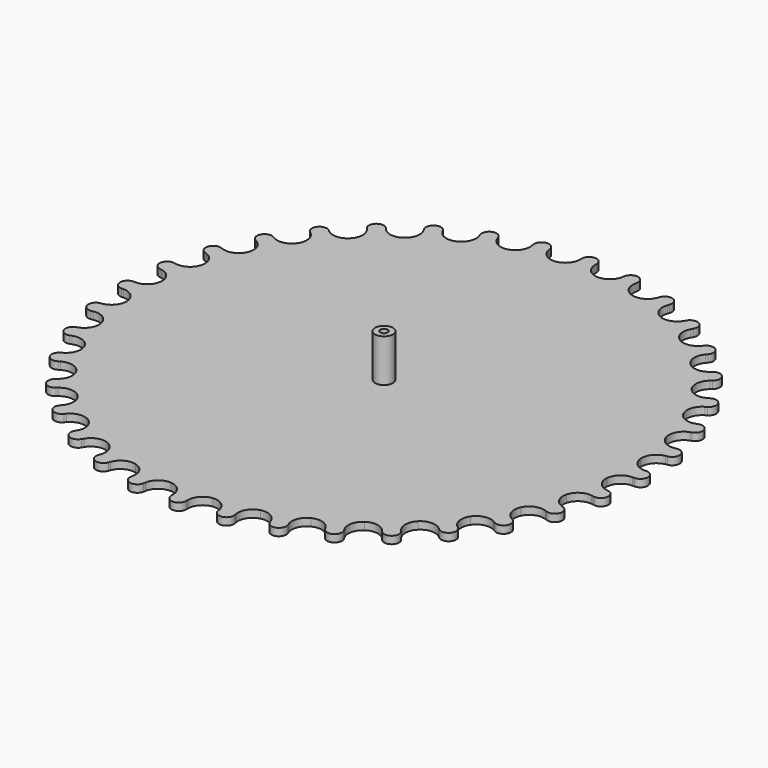
from build123d import *

# Parameters (mm, degrees)
F1_DEPTH = 1
F2_COUNT = 36
F3_R     = 2.4
F4_DEPTH = 12.5
F5_R     = 1
F6_DEPTH = 13.501


with BuildPart() as f1:
    # F0 (on Top) → F1 (new body, symmetric)
    with BuildSketch(Plane.XY):
        with BuildLine():
            Line((2, 68.319345), (2, 68.842279))
            ThreePointArc((2, 68.842279), (0, 70.842279), (-2, 68.842279))
            Line((-2, 68.842279), (-2, 68.319345))
            ThreePointArc((-2, 68.319345), (-3.044892, 65.632409), (-5.630535, 64.357311))
            Line((-5.630535, 64.357311), (0, 0))
            Line((0, 0), (5.630535, 64.357311))
            ThreePointArc((5.630535, 64.357311), (3.044892, 65.632409), (2, 68.319345))
        make_face()
    extrude(amount=F1_DEPTH, both=True)

    # F2: F1 ×36 about axis
    f2_axis = Axis((0, 0, 0), (0, 0, 1))


with BuildPart() as f1_1:
    add(f1.part)
    for i in range(1, F2_COUNT):
        add(f1.part.rotate(f2_axis, i * 360 / F2_COUNT))

    # F3 (on Top) → F4 (join)
    with BuildSketch(Plane.XY):
        Circle(F3_R)
    extrude(amount=F4_DEPTH)

    # F5 (on face) → F6 (cut, through all)
    with BuildSketch(Plane.XY.offset(12.5)):
        Circle(F5_R)
    extrude(amount=-F6_DEPTH, mode=Mode.SUBTRACT)


solid = f1_1.part
